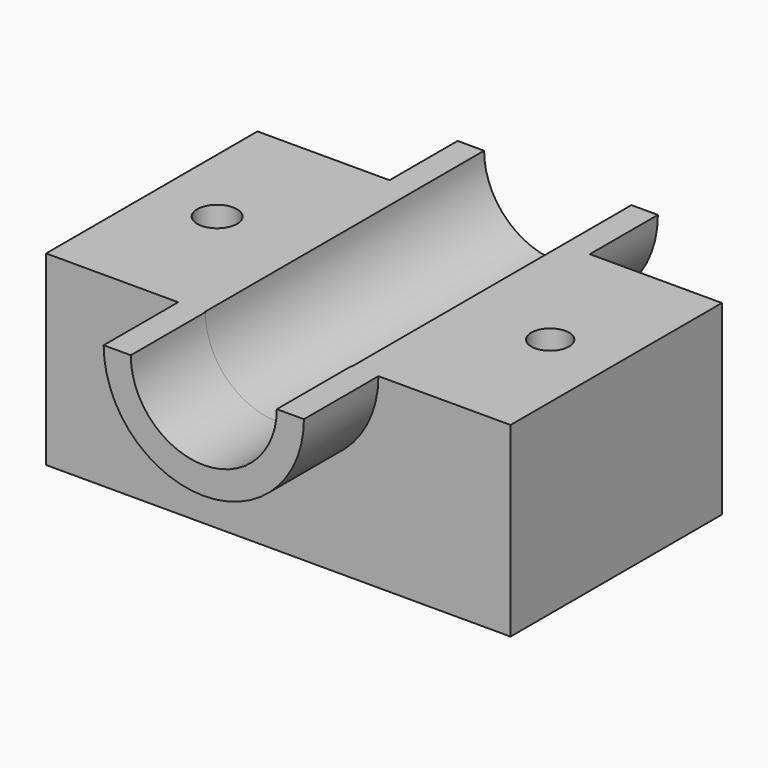
from build123d import *

# Parameters (mm, degrees)
F0_W          = 126.6509
F0_H          = 72.04692
F1_DEPTH      = 50.8
F3_DEPTH      = 25.4
F3_DEPTH_BACK = 95.25
F4_R          = 20.086156
F5_DEPTH      = 95.251
F6_R          = 5.429237
F6_R_2        = 5.157598
F7_DEPTH      = 50.801


with BuildPart() as f1:
    # F0 (on Top) → F1 (new body)
    with BuildSketch(Plane.XY):
        Rectangle(F0_W, F0_H)
    extrude(amount=F1_DEPTH)

    # F2 (on face) → F3 (join, two sides)
    with BuildSketch(Plane.XZ.offset(36.02346)) as f3_sk:
        with BuildLine():
            Line((27.301989, 50.8), (19.907702, 50.8))
            ThreePointArc((19.907702, 50.8), (0, 30.892298), (-19.907702, 50.8))
            Line((-19.907702, 50.8), (-27.301989, 50.8))
            ThreePointArc((-27.301989, 50.8), (0, 23.498011), (27.301989, 50.8))
        make_face()
    extrude(amount=F3_DEPTH)
    extrude(f3_sk.sketch, amount=-F3_DEPTH_BACK)

    # F4 (on face) → F5 (cut, through all)
    with BuildSketch(Plane.XZ.offset(36.02346)):
        with Locations((0, 50.8)):
            Circle(F4_R)
    extrude(amount=-F5_DEPTH, mode=Mode.SUBTRACT)

    # F6 (on face) → F7 (cut, through all)
    with BuildSketch(Plane.XY.offset(50.8)):
        with Locations((-45.503318, 0)):
            Circle(F6_R)
        with Locations((45.313723, 0)):
            Circle(F6_R_2)
    extrude(amount=-F7_DEPTH, mode=Mode.SUBTRACT)


solid = f1.part
